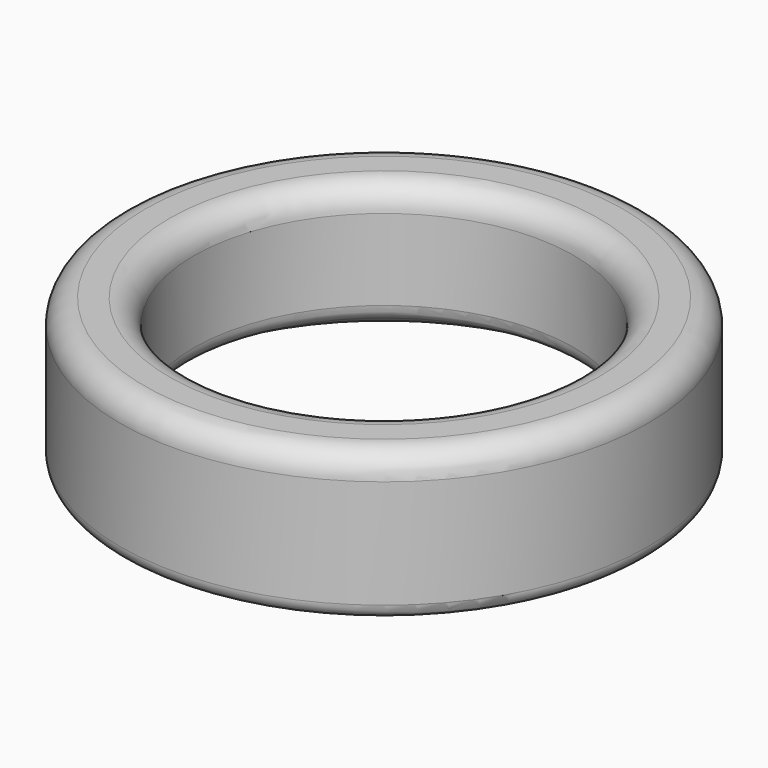
from build123d import *

# Parameters (mm, degrees)
F2_R = 0.5


with BuildPart() as f1:
    # F0 (on Front) → F1 (revolve)
    with BuildSketch(Plane.XZ):
        with BuildLine():
            Line((-4.9, 7.563289), (-4.033975, 8.063289))
            ThreePointArc((-4.033975, 8.063289), (-3.899296, 8.197967), (-3.85, 8.381942))
            Line((-3.85, 8.381942), (-3.85, 10.523096))
            Line((-3.85, 10.523096), (-5.35, 10.523096))
            Line((-5.35, 10.523096), (-5.35, 7.823096))
            ThreePointArc((-5.35, 7.823096), (-5.2, 7.563289), (-4.9, 7.563289))
        make_face()
    revolve(axis=Axis((0, 0, -0.587365), (0, 0, -1)))

    # F2
    f2_edges = [f1.edges().sort_by_distance(p)[0] for p in [
        (3.85, 0, 10.523096),
        (5.35, 0, 10.523096),
    ]]
    fillet(f2_edges, radius=F2_R)


solid = f1.part
